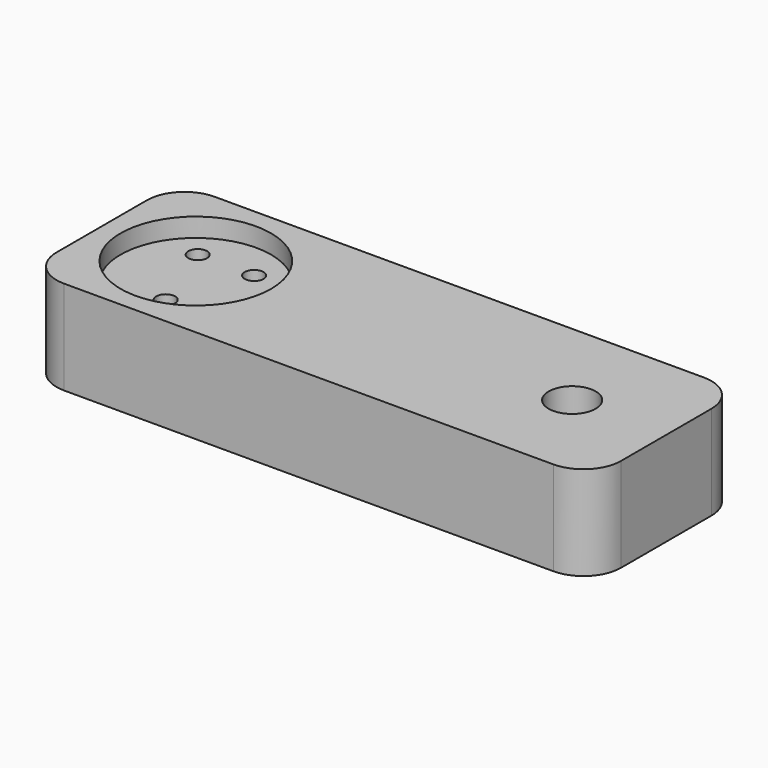
from build123d import *

# Parameters (mm, degrees)
F0_W     = 30
F0_H     = 10
F1_DEPTH = 2.5
F2_R     = 4
F3_DEPTH = 1
F4_R     = 0.5
F5_DEPTH = 3
F6_R     = 1.25
F7_DEPTH = 5.001
F8_R     = 2


with BuildPart() as f1:
    # F0 (on Top) → F1 (new body, symmetric)
    with BuildSketch(Plane.XY):
        Rectangle(F0_W, F0_H)
    extrude(amount=F1_DEPTH, both=True)

    # F2 (on face) → F3 (cut)
    with BuildSketch(Plane.XY.offset(2.5)):
        with Locations((-10, 0)):
            Circle(F2_R)
    extrude(amount=-F3_DEPTH, mode=Mode.SUBTRACT)

    # F4 (on face) → F5 (cut)
    with BuildSketch(Plane.XY.offset(1.5)):
        with Locations((-11.5, 2)):
            Circle(F4_R)
        with Locations((-8.5, 2)):
            Circle(F4_R)
        with Locations((-10, -2)):
            Circle(F4_R)
    extrude(amount=-F5_DEPTH, mode=Mode.SUBTRACT)

    # F6 (on face) → F7 (cut, through all)
    with BuildSketch(Plane.XY.offset(2.5)):
        with Locations((10, 0)):
            Circle(F6_R)
    extrude(amount=-F7_DEPTH, mode=Mode.SUBTRACT)

    # F8
    f8_edges = [f1.edges().sort_by_distance(p)[0] for p in [
        (-15, -5, 0),
        (-15, 5, 0),
        (15, -5, 0),
        (15, 5, 0),
    ]]
    fillet(f8_edges, radius=F8_R)


solid = f1.part
